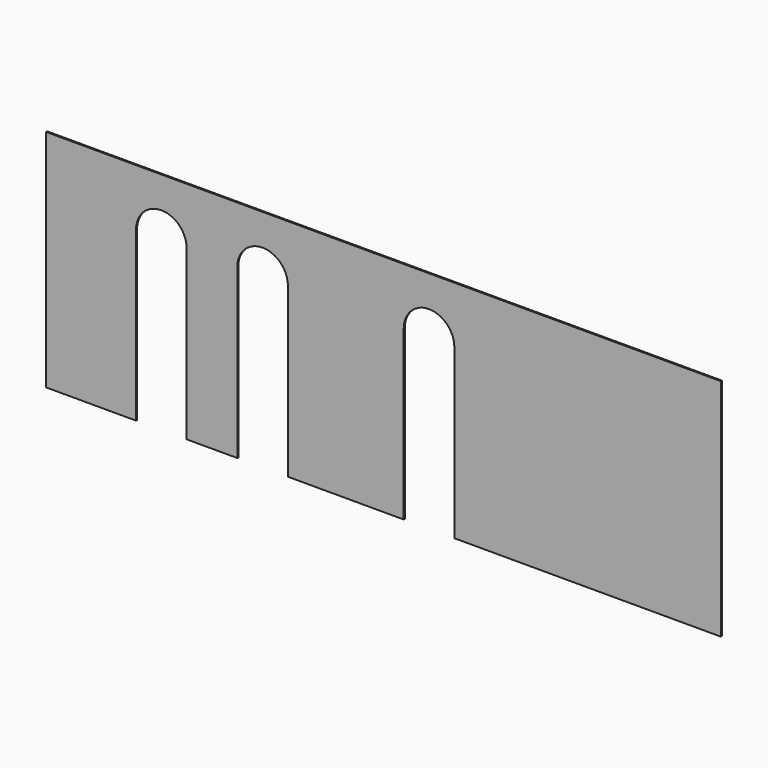
from build123d import *

# Parameters (mm, degrees)
F1_DEPTH = 1.1557


with BuildPart() as f1:
    # F0 (on Front) → F1 (new body)
    with BuildSketch(Plane.XZ):
        with BuildLine():
            Line((0, 200), (0, 0))
            Line((0, 0), (80, 0))
            Line((80, 0), (80, 149.5))
            ThreePointArc((80, 149.5), (102.5, 172), (125, 149.5))
            Line((125, 149.5), (125, 0))
            Line((125, 0), (170, 0))
            Line((170, 0), (170, 149.5))
            ThreePointArc((170, 149.5), (192.5, 172), (215, 149.5))
            Line((215, 149.5), (215, 0))
            Line((215, 0), (318, 0))
            Line((318, 0), (318, 149.5))
            ThreePointArc((318, 149.5), (340.5, 172), (363, 149.5))
            Line((363, 149.5), (363, 0))
            Line((363, 0), (600, 0))
            Line((600, 0), (600, 200))
            Line((600, 200), (0, 200))
        make_face()
    extrude(amount=F1_DEPTH)


solid = f1.part
